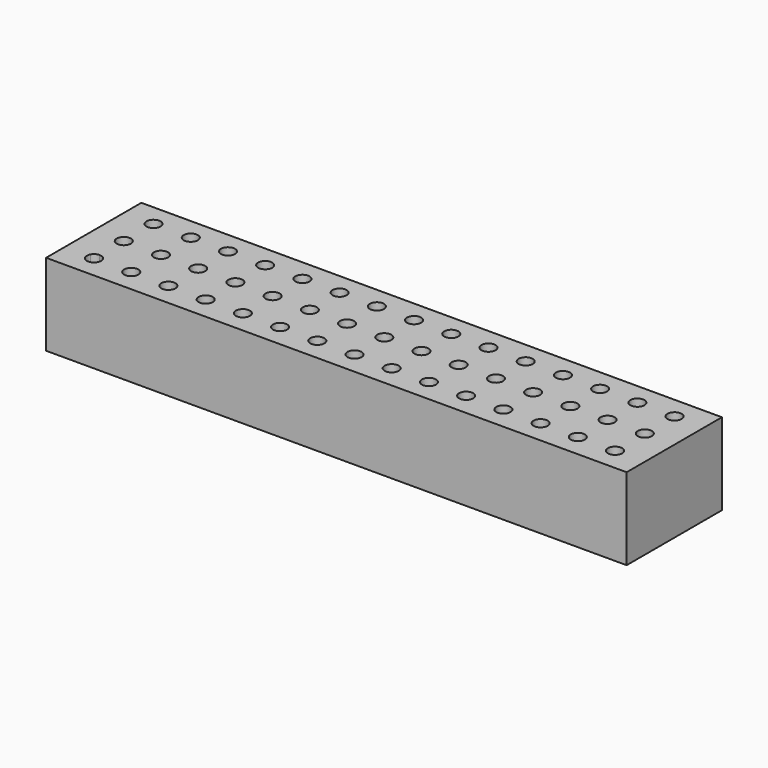
from build123d import *

# Parameters (mm, degrees)
F0_W     = 390
F0_H     = 80
F0_R     = 4.75
F1_DEPTH = 30
F2_W     = 390
F2_H     = 80
F3_DEPTH = 25


with BuildPart() as f1:
    # F0 (on Top) → F1 (new body)
    with BuildSketch(Plane.XY):
        with Locations((175, 24.758239)):
            Rectangle(F0_W, F0_H)
        with BuildLine():
            ThreePointArc((-4.1265, 2.352552), (-2.397378, 4.100619), (-0.02588, 4.749929))
            ThreePointArc((-0.02588, 4.749929), (2.352552, 4.1265), (4.100619, 2.397378))
            ThreePointArc((4.100619, 2.397378), (4.584781, 1.241885), (4.75, 0))
            ThreePointArc((4.75, 0), (4.59148, -1.216887), (4.1265, -2.352552))
            ThreePointArc((4.1265, -2.352552), (2.397378, -4.100619), (0.02588, -4.749929))
            ThreePointArc((0.02588, -4.749929), (-2.352552, -4.1265), (-4.100619, -2.397378))
            ThreePointArc((-4.100619, -2.397378), (-4.749929, -0.02588), (-4.1265, 2.352552))
        make_face(mode=Mode.SUBTRACT)
        with Locations((25, 0)):
            Circle(F0_R, mode=Mode.SUBTRACT)
        with Locations((50, 0)):
            Circle(F0_R, mode=Mode.SUBTRACT)
        with Locations((75, 0)):
            Circle(F0_R, mode=Mode.SUBTRACT)
        with Locations((100, 0)):
            Circle(F0_R, mode=Mode.SUBTRACT)
        with Locations((125, 0)):
            Circle(F0_R, mode=Mode.SUBTRACT)
        with Locations((150, 0)):
            Circle(F0_R, mode=Mode.SUBTRACT)
        with Locations((175, 0)):
            Circle(F0_R, mode=Mode.SUBTRACT)
        with Locations((200, 0)):
            Circle(F0_R, mode=Mode.SUBTRACT)
        with Locations((225, 0)):
            Circle(F0_R, mode=Mode.SUBTRACT)
        with Locations((250, 0)):
            Circle(F0_R, mode=Mode.SUBTRACT)
        with Locations((275, 0)):
            Circle(F0_R, mode=Mode.SUBTRACT)
        with Locations((300, 0)):
            Circle(F0_R, mode=Mode.SUBTRACT)
        with Locations((325, 0)):
            Circle(F0_R, mode=Mode.SUBTRACT)
        with Locations((350, 0)):
            Circle(F0_R, mode=Mode.SUBTRACT)
        with Locations((0, 25)):
            Circle(F0_R, mode=Mode.SUBTRACT)
        with Locations((25, 25)):
            Circle(F0_R, mode=Mode.SUBTRACT)
        with Locations((50, 25)):
            Circle(F0_R, mode=Mode.SUBTRACT)
        with Locations((75, 25)):
            Circle(F0_R, mode=Mode.SUBTRACT)
        with Locations((100, 25)):
            Circle(F0_R, mode=Mode.SUBTRACT)
        with Locations((125, 25)):
            Circle(F0_R, mode=Mode.SUBTRACT)
        with Locations((150, 25)):
            Circle(F0_R, mode=Mode.SUBTRACT)
        with Locations((0, 50)):
            Circle(F0_R, mode=Mode.SUBTRACT)
        with Locations((25, 50)):
            Circle(F0_R, mode=Mode.SUBTRACT)
        with Locations((50, 50)):
            Circle(F0_R, mode=Mode.SUBTRACT)
        with Locations((75, 50)):
            Circle(F0_R, mode=Mode.SUBTRACT)
        with Locations((100, 50)):
            Circle(F0_R, mode=Mode.SUBTRACT)
        with Locations((125, 50)):
            Circle(F0_R, mode=Mode.SUBTRACT)
        with Locations((150, 50)):
            Circle(F0_R, mode=Mode.SUBTRACT)
        with Locations((175, 25)):
            Circle(F0_R, mode=Mode.SUBTRACT)
        with Locations((200, 25)):
            Circle(F0_R, mode=Mode.SUBTRACT)
        with Locations((225, 25)):
            Circle(F0_R, mode=Mode.SUBTRACT)
        with Locations((250, 25)):
            Circle(F0_R, mode=Mode.SUBTRACT)
        with Locations((275, 25)):
            Circle(F0_R, mode=Mode.SUBTRACT)
        with Locations((300, 25)):
            Circle(F0_R, mode=Mode.SUBTRACT)
        with Locations((325, 25)):
            Circle(F0_R, mode=Mode.SUBTRACT)
        with Locations((350, 25)):
            Circle(F0_R, mode=Mode.SUBTRACT)
        with Locations((175, 50)):
            Circle(F0_R, mode=Mode.SUBTRACT)
        with Locations((200, 50)):
            Circle(F0_R, mode=Mode.SUBTRACT)
        with Locations((225, 50)):
            Circle(F0_R, mode=Mode.SUBTRACT)
        with Locations((250, 50)):
            Circle(F0_R, mode=Mode.SUBTRACT)
        with Locations((275, 50)):
            Circle(F0_R, mode=Mode.SUBTRACT)
        with Locations((300, 50)):
            Circle(F0_R, mode=Mode.SUBTRACT)
        with Locations((325, 50)):
            Circle(F0_R, mode=Mode.SUBTRACT)
        with Locations((350, 50)):
            Circle(F0_R, mode=Mode.SUBTRACT)
    extrude(amount=F1_DEPTH)

    # F2 (on face) → F3 (join)
    with BuildSketch(Plane(origin=(0, 0, 0), x_dir=(1, 0, 0), z_dir=(0, 0, -1))):
        with Locations((175, -24.758239)):
            Rectangle(F2_W, F2_H)
    extrude(amount=F3_DEPTH)


solid = f1.part
